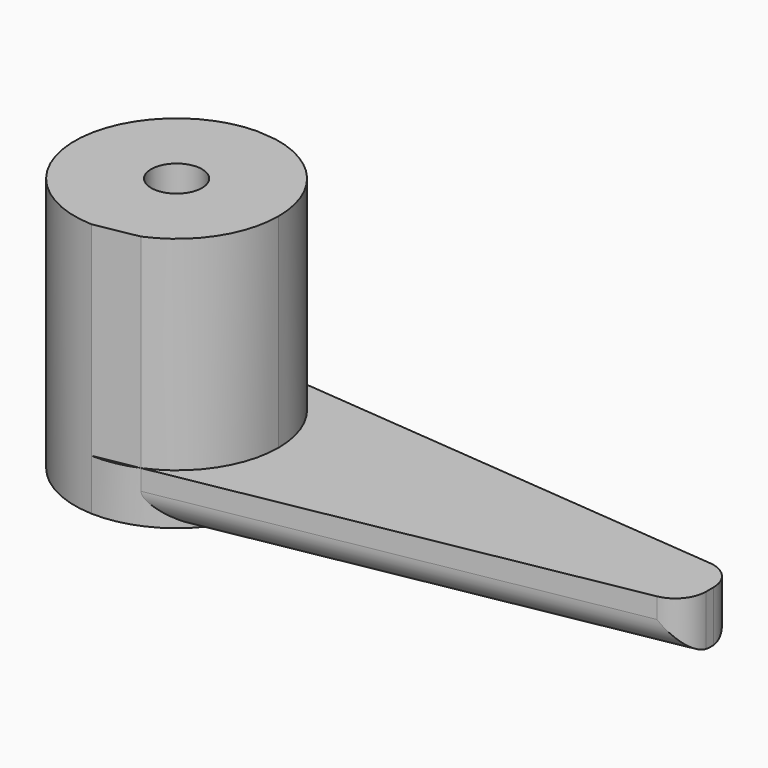
from build123d import *

# Parameters (mm, degrees)
F0_R     = 2.5
F1_DEPTH = 25
F2_DEPTH = 5
F3_R     = 3


with BuildPart() as f1:
    # F0 (on Top) → F1 (new body)
    with BuildSketch(Plane.XY):
        with BuildLine():
            Line((-48.6113993327, 56.4697863751), (-50.6071856175, 56.6486881103))
            ThreePointArc((-50.6071856175, 56.6486881103), (-60.4968157511, 46.7759208686), (-50.8603799334, 36.6558703788))
            Line((-50.8603799334, 36.6558703788), (-46.6194621468, 37.431918344))
            ThreePointArc((-46.6194621468, 37.431918344), (-42.1675049005, 41.1167281405), (-40.4976175725, 46.6492883861))
            ThreePointArc((-40.4976175725, 46.6492883861), (-42.7884612504, 53.0186611025), (-48.6113993327, 56.4697863751))
        make_face()
        with Locations((-50.4976175725, 46.6492883861)):
            Circle(F0_R, mode=Mode.SUBTRACT)
    extrude(amount=F1_DEPTH)

    # F0 (on Top) → F2 (join)
    with BuildSketch(Plane.XY):
        with BuildLine():
            Line((-48.6113993327, 56.4697863751), (-50.6071856175, 56.6486881103))
            ThreePointArc((-50.6071856175, 56.6486881103), (-60.4968157511, 46.7759208686), (-50.8603799334, 36.6558703788))
            Line((-50.8603799334, 36.6558703788), (-46.6194621468, 37.431918344))
            ThreePointArc((-46.6194621468, 37.431918344), (-42.1675049005, 41.1167281405), (-40.4976175725, 46.6492883861))
            ThreePointArc((-40.4976175725, 46.6492883861), (-42.7884612504, 53.0186611025), (-48.6113993327, 56.4697863751))
        make_face()
        with Locations((-50.4976175725, 46.6492883861)):
            Circle(F0_R, mode=Mode.SUBTRACT)
        with BuildLine():
            ThreePointArc((-48.6113993327, 56.4697863751), (-49.6048001576, 56.6093524955), (-50.6071856175, 56.6486881103))
            Line((-50.6071856175, 56.6486881103), (-48.6113993327, 56.4697863751))
        make_face()
        with BuildLine():
            Line((-46.6194621468, 37.431918344), (-50.8603799334, 36.6558703788))
            ThreePointArc((-50.8603799334, 36.6558703788), (-48.6976009861, 36.8126253194), (-46.6194621468, 37.431918344))
        make_face()
        with BuildLine():
            Line((0, 52.1122738719), (-48.6113993327, 56.4697863751))
            ThreePointArc((-48.6113993327, 56.4697863751), (-42.7884612504, 53.0186611025), (-40.4976175725, 46.6492883861))
            ThreePointArc((-40.4976175725, 46.6492883861), (-42.1675049005, 41.1167281405), (-46.6194621468, 37.431918344))
            Line((-46.6194621468, 37.431918344), (0, 45.9628403187))
            Line((0, 45.9628403187), (0, 52.1122738719))
        make_face()
    extrude(amount=F2_DEPTH)

    # F3
    f3_edges = [f1.edges().sort_by_distance(p)[0] for p in [
        (0, 45.96284, 2.5),
        (0, 52.112274, 2.5),
        (-23.309731, 41.697379, 0),
        (-24.3057, 54.29103, 0),
    ]]
    fillet(f3_edges, radius=F3_R)


solid = f1.part
